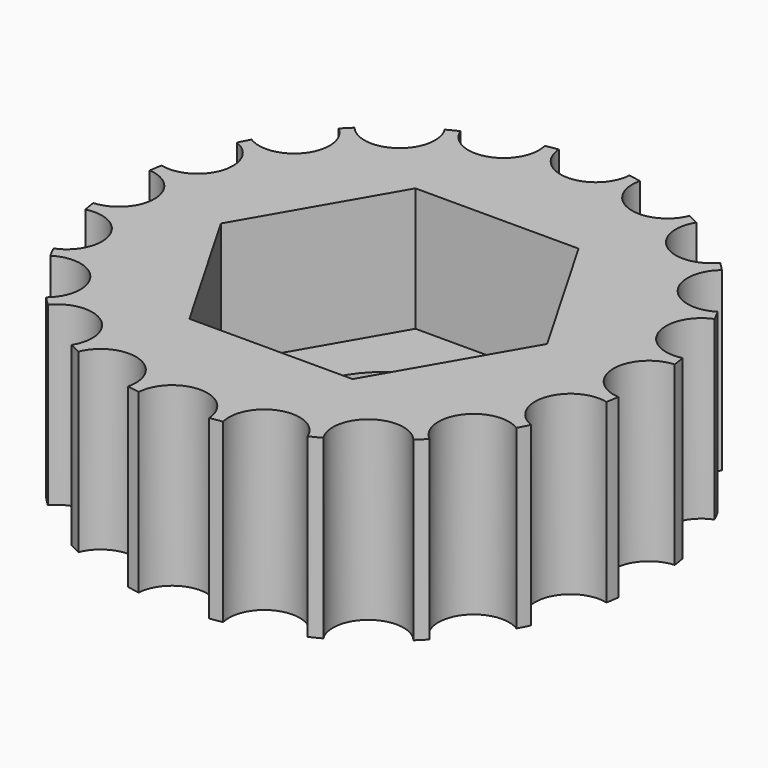
from build123d import *

# Parameters (mm, degrees)
F0_R     = 7.5
F1_DEPTH = 5
F2_R     = 1
F2_R_2   = 2.5
F3_DEPTH = 25
F5_DEPTH = 3.5


with BuildPart() as f1:
    # F0 (on Top) → F1 (new body)
    with BuildSketch(Plane.XY):
        Circle(F0_R)
    extrude(amount=F1_DEPTH)

    # F2 (on face) → F3 (cut)
    with BuildSketch(Plane.XY.offset(5)):
        with Locations((0, 7.5)):
            Circle(F2_R)
        Circle(F2_R_2)
        with Locations((-2.317627, 7.132924)):
            Circle(F2_R)
        with Locations((-4.408389, 6.067627)):
            Circle(F2_R)
        with Locations((-6.067627, 4.408389)):
            Circle(F2_R)
        with Locations((-7.132924, 2.317627)):
            Circle(F2_R)
        with Locations((-7.5, 0)):
            Circle(F2_R)
        with Locations((-7.132924, -2.317627)):
            Circle(F2_R)
        with Locations((-6.067627, -4.408389)):
            Circle(F2_R)
        with Locations((-4.408389, -6.067627)):
            Circle(F2_R)
        with Locations((-2.317627, -7.132924)):
            Circle(F2_R)
        with Locations((0, -7.5)):
            Circle(F2_R)
        with Locations((2.317627, -7.132924)):
            Circle(F2_R)
        with Locations((4.408389, -6.067627)):
            Circle(F2_R)
        with Locations((6.067627, -4.408389)):
            Circle(F2_R)
        with Locations((7.132924, -2.317627)):
            Circle(F2_R)
        with Locations((7.5, 0)):
            Circle(F2_R)
        with Locations((7.132924, 2.317627)):
            Circle(F2_R)
        with Locations((6.067627, 4.408389)):
            Circle(F2_R)
        with Locations((4.408389, 6.067627)):
            Circle(F2_R)
        with Locations((2.317627, 7.132924)):
            Circle(F2_R)
    extrude(amount=-F3_DEPTH, mode=Mode.SUBTRACT)

    # F4 (on face) → F5 (cut)
    with BuildSketch(Plane.XY.offset(5)):
        Polygon((-2.309401, -4), (2.309401, -4), (4.618802, 0), (2.309401, 4), (-2.309401, 4), (-4.618802, 0), align=None)
    extrude(amount=-F5_DEPTH, mode=Mode.SUBTRACT)


solid = f1.part
